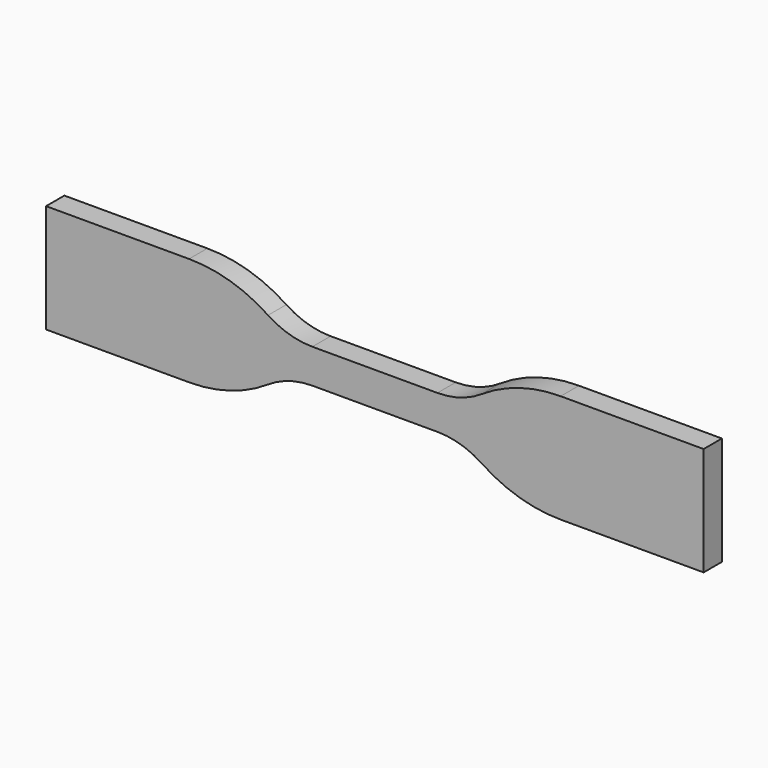
from build123d import *

# Parameters (mm, degrees)
F1_DEPTH = 2


with BuildPart() as f1:
    # F0 (on Front) → F1 (new body, symmetric)
    with BuildSketch(Plane.XZ):
        with BuildLine():
            Line((10.937621, 2.9972), (0, 2.9972))
            Line((0, 2.9972), (-10.937621, 2.9972))
            ThreePointArc((-10.937621, 2.9972), (-14.979819, 3.593445), (-18.677711, 5.331395))
            ThreePointArc((-18.677711, 5.331395), (-25.281089, 8.434876), (-32.4993, 9.4996))
            Line((-32.4993, 9.4996), (-57.5056, 9.4996))
            Line((-57.5056, 9.4996), (-57.5056, 0))
            Line((-57.5056, 0), (-57.5056, -9.4996))
            Line((-57.5056, -9.4996), (-32.4993, -9.4996))
            ThreePointArc((-32.4993, -9.4996), (-25.281089, -8.434876), (-18.677711, -5.331395))
            ThreePointArc((-18.677711, -5.331395), (-14.979819, -3.593445), (-10.937621, -2.9972))
            Line((-10.937621, -2.9972), (0, -2.9972))
            Line((0, -2.9972), (10.937621, -2.9972))
            ThreePointArc((10.937621, -2.9972), (14.979819, -3.593445), (18.677711, -5.331395))
            ThreePointArc((18.677711, -5.331395), (25.281089, -8.434876), (32.4993, -9.4996))
            Line((32.4993, -9.4996), (57.5056, -9.4996))
            Line((57.5056, -9.4996), (57.5056, 0))
            Line((57.5056, 0), (57.5056, 9.4996))
            Line((57.5056, 9.4996), (32.4993, 9.4996))
            ThreePointArc((32.4993, 9.4996), (25.281089, 8.434876), (18.677711, 5.331395))
            ThreePointArc((18.677711, 5.331395), (14.979819, 3.593445), (10.937621, 2.9972))
        make_face()
    extrude(amount=F1_DEPTH, both=True)


solid = f1.part
